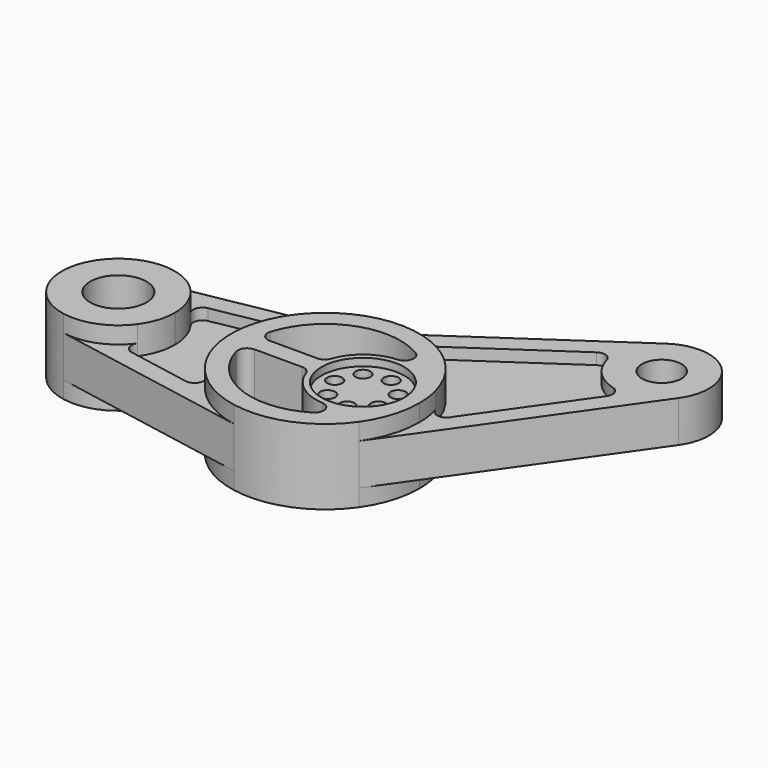
from build123d import *

# Parameters (mm, degrees)
F1_DEPTH = 11
F2_DEPTH = 5
F0_R     = 10.5
F3_DEPTH = 11
F0_R_2   = 15
F0_R_3   = 22
F4_DEPTH = 20
F6_DEPTH = 40.001
F0_R_4   = 4
F7_DEPTH = 16


with BuildPart() as f1:
    # F0 (on Top) → F1 (new body, symmetric)
    with BuildSketch(Plane.XY):
        with BuildLine():
            ThreePointArc((30, 0), (27.672658, -15.077059), (20.907291, -28.75054))
            Line((20.907291, -28.75054), (100.377335, 84.322267))
            ThreePointArc((100.377335, 84.322267), (91.78917, 76.692756), (80.695661, 73.709459))
            ThreePointArc((80.695661, 73.709459), (76.907348, 73.880171), (73.188437, 74.621899))
            ThreePointArc((73.188437, 74.621899), (76.550642, 71.486924), (75.932116, 66.931717))
            Line((75.932116, 66.931717), (37.831971, 12.721475))
            ThreePointArc((37.831971, 12.721475), (37.189959, 11.459233), (36.219799, 10.42762))
            ThreePointArc((36.219799, 10.42762), (31.542706, 9.582736), (28.272027, 13.03117))
            ThreePointArc((28.272027, 13.03117), (29.566124, 6.572619), (30, 0))
        make_face()
        with BuildLine():
            ThreePointArc((-105.684211, -17.571067), (-118.841538, -27.847598), (-135.454545, -29.499965))
            Line((-135.454545, -29.499965), (-29.090909, -49.166608))
            ThreePointArc((-29.090909, -49.166608), (-49.187749, -40.596494), (-63.711715, -24.275212))
            ThreePointArc((-63.711715, -24.275212), (-64.023238, -29.621509), (-68.991978, -31.619394))
            Line((-68.991978, -31.619394), (-102.54067, -25.416239))
            ThreePointArc((-102.54067, -25.416239), (-106.272846, -22.359322), (-105.684211, -17.571067))
        make_face()
        with BuildLine():
            Line((-42.434373, 46.699401), (-135.454545, 29.499965))
            ThreePointArc((-135.454545, 29.499965), (-118.841538, 27.847598), (-105.684211, 17.571067))
            ThreePointArc((-105.684211, 17.571067), (-106.272846, 22.359322), (-102.54067, 25.416239))
            Line((-102.54067, 25.416239), (-68.991978, 31.619394))
            ThreePointArc((-68.991978, 31.619394), (-64.023238, 29.621509), (-63.711715, 24.275212))
            ThreePointArc((-63.711715, 24.275212), (-60.527668, 29.283239), (-56.772692, 33.878741))
            ThreePointArc((-56.772692, 33.878741), (-33.707162, 48.084443), (-6.618193, 48.176003))
            ThreePointArc((-6.618193, 48.176003), (-10.007535, 51.365559), (-9.30078, 55.965711))
            ThreePointArc((-9.30078, 55.965711), (-8.098503, 57.123507), (-6.582138, 57.821073))
            Line((-6.582138, 57.821073), (48.105951, 95.143458))
            ThreePointArc((48.105951, 95.143458), (52.669238, 95.699243), (55.757649, 92.294218))
            ThreePointArc((55.757649, 92.294218), (55.098399, 95.747126), (54.929981, 99.258368))
            ThreePointArc((54.929981, 99.258368), (57.950504, 110.621425), (65.831236, 119.347059))
            Line((65.831236, 119.347059), (-37.851813, 48.587617))
            ThreePointArc((-37.851813, 48.587617), (-40.044545, 47.404341), (-42.434373, 46.699401))
        make_face()
    extrude(amount=F1_DEPTH, both=True)



with BuildPart() as f2:
    # F0 (on Top) → F2 (new body, symmetric)
    with BuildSketch(Plane.XY):
        with BuildLine():
            ThreePointArc((-100, 0), (-101.456405, -9.233805), (-105.684211, -17.571067))
            ThreePointArc((-105.684211, -17.571067), (-106.272846, -22.359322), (-102.54067, -25.416239))
            Line((-102.54067, -25.416239), (-68.991978, -31.619394))
            ThreePointArc((-68.991978, -31.619394), (-64.023238, -29.621509), (-63.711715, -24.275212))
            ThreePointArc((-63.711715, -24.275212), (-70, 0), (-63.711715, 24.275212))
            ThreePointArc((-63.711715, 24.275212), (-64.023238, 29.621509), (-68.991978, 31.619394))
            Line((-68.991978, 31.619394), (-102.54067, 25.416239))
            ThreePointArc((-102.54067, 25.416239), (-106.272846, 22.359322), (-105.684211, 17.571067))
            ThreePointArc((-105.684211, 17.571067), (-101.456405, 9.233805), (-100, 0))
        make_face()
        with BuildLine():
            ThreePointArc((-6.618193, 48.176003), (15.483639, 35.226572), (28.272027, 13.03117))
            ThreePointArc((28.272027, 13.03117), (31.542706, 9.582736), (36.219799, 10.42762))
            Line((36.219799, 10.42762), (37.831971, 12.721475))
            Line((37.831971, 12.721475), (75.932116, 66.931717))
            ThreePointArc((75.932116, 66.931717), (76.550642, 71.486924), (73.188437, 74.621899))
            ThreePointArc((73.188437, 74.621899), (62.124808, 81.141917), (55.757649, 92.294218))
            ThreePointArc((55.757649, 92.294218), (52.669238, 95.699243), (48.105951, 95.143458))
            Line((48.105951, 95.143458), (-6.582138, 57.821073))
            Line((-6.582138, 57.821073), (-9.30078, 55.965711))
            ThreePointArc((-9.30078, 55.965711), (-10.007535, 51.365559), (-6.618193, 48.176003))
        make_face()
    extrude(amount=F2_DEPTH, both=True)


with BuildPart() as f1_1:
    add(f1.part)

    add(f2.part)  # F3 merges F2
    # F0 (on Top) → F3 (join, symmetric)
    with BuildSketch(Plane.XY):
        with BuildLine():
            ThreePointArc((80.695661, 73.709459), (91.78917, 76.692756), (100.377335, 84.322267))
            ThreePointArc((100.377335, 84.322267), (97.722572, 116.253157), (65.831236, 119.347059))
            ThreePointArc((65.831236, 119.347059), (57.950504, 110.621425), (54.929981, 99.258368))
            ThreePointArc((54.929981, 99.258368), (55.098399, 95.747126), (55.757649, 92.294218))
            ThreePointArc((55.757649, 92.294218), (62.124808, 81.141917), (73.188437, 74.621899))
            ThreePointArc((73.188437, 74.621899), (76.907348, 73.880171), (80.695661, 73.709459))
        make_face()
        with Locations((79.92369, 98.697537)):
            Circle(F0_R, mode=Mode.SUBTRACT)
    extrude(amount=F3_DEPTH, both=True)

    # F0 (on Top) → F4 (join, symmetric)
    with BuildSketch(Plane.XY):
        with BuildLine():
            ThreePointArc((-135.454545, 29.499965), (-160, 0), (-135.454545, -29.499965))
            ThreePointArc((-135.454545, -29.499965), (-118.841538, -27.847598), (-105.684211, -17.571067))
            ThreePointArc((-105.684211, -17.571067), (-101.456405, -9.233805), (-100, 0))
            ThreePointArc((-100, 0), (-101.456405, 9.233805), (-105.684211, 17.571067))
            ThreePointArc((-105.684211, 17.571067), (-118.841538, 27.847598), (-135.454545, 29.499965))
        make_face()
        with Locations((-130, 0)):
            Circle(F0_R_2, mode=Mode.SUBTRACT)
        with BuildLine():
            ThreePointArc((-63.711715, -24.275212), (-49.187749, -40.596494), (-29.090909, -49.166608))
            ThreePointArc((-29.090909, -49.166608), (-1.098294, -46.289583), (20.907291, -28.75054))
            ThreePointArc((20.907291, -28.75054), (27.672658, -15.077059), (30, 0))
            ThreePointArc((30, 0), (29.566124, 6.572619), (28.272027, 13.03117))
            ThreePointArc((28.272027, 13.03117), (15.483639, 35.226572), (-6.618193, 48.176003))
            ThreePointArc((-6.618193, 48.176003), (-33.707162, 48.084443), (-56.772692, 33.878741))
            ThreePointArc((-56.772692, 33.878741), (-60.527668, 29.283239), (-63.711715, 24.275212))
            ThreePointArc((-63.711715, 24.275212), (-70, 0), (-63.711715, -24.275212))
        make_face()
        Circle(F0_R_3, mode=Mode.SUBTRACT)
    extrude(amount=F4_DEPTH, both=True)

    # F5 (on face) → F6 (cut, through all)
    with BuildSketch(Plane.XY.offset(20)):
        with BuildLine():
            ThreePointArc((-1.5625, 24.951124), (2.980616, 28.748457), (0.714286, 34.218684))
            ThreePointArc((0.714286, 34.218684), (-34.403073, 37.316906), (-58.332594, 11.428571))
            ThreePointArc((-58.332594, 11.428571), (-57.549938, 7.011928), (-53.54102, 5))
            Line((-53.54102, 5), (-28.284271, 5))
            ThreePointArc((-28.284271, 5), (-25.39752, 5.917517), (-23.570226, 8.333333))
            ThreePointArc((-23.570226, 8.333333), (-15.0649, 19.95116), (-1.5625, 24.951124))
        make_face()
        with BuildLine():
            ThreePointArc((-23.570226, -8.333333), (-25.39752, -5.917517), (-28.284271, -5))
            Line((-28.284271, -5), (-53.54102, -5))
            ThreePointArc((-53.54102, -5), (-57.549938, -7.011928), (-58.332594, -11.428571))
            ThreePointArc((-58.332594, -11.428571), (-34.403073, -37.316906), (0.714286, -34.218684))
            ThreePointArc((0.714286, -34.218684), (2.980616, -28.748457), (-1.5625, -24.951124))
            ThreePointArc((-1.5625, -24.951124), (-15.0649, -19.95116), (-23.570226, -8.333333))
        make_face()
    extrude(amount=-F6_DEPTH, mode=Mode.SUBTRACT)

    # F0 (on Top) → F7 (join, symmetric)
    with BuildSketch(Plane.XY):
        Circle(F0_R_3)
        with Locations((3.337814, -14.623919)):
            Circle(F0_R_4, mode=Mode.SUBTRACT)
        with Locations((-9.352347, -11.727472)):
            Circle(F0_R_4, mode=Mode.SUBTRACT)
        with Locations((-15, 0)):
            Circle(F0_R_4, mode=Mode.SUBTRACT)
        with Locations((-9.352347, 11.727472)):
            Circle(F0_R_4, mode=Mode.SUBTRACT)
        with Locations((3.337814, 14.623919)):
            Circle(F0_R_4, mode=Mode.SUBTRACT)
        with Locations((13.514533, -6.508256)):
            Circle(F0_R_4, mode=Mode.SUBTRACT)
        with Locations((13.514533, 6.508256)):
            Circle(F0_R_4, mode=Mode.SUBTRACT)
    extrude(amount=F7_DEPTH, both=True)


solid = f1_1.part
